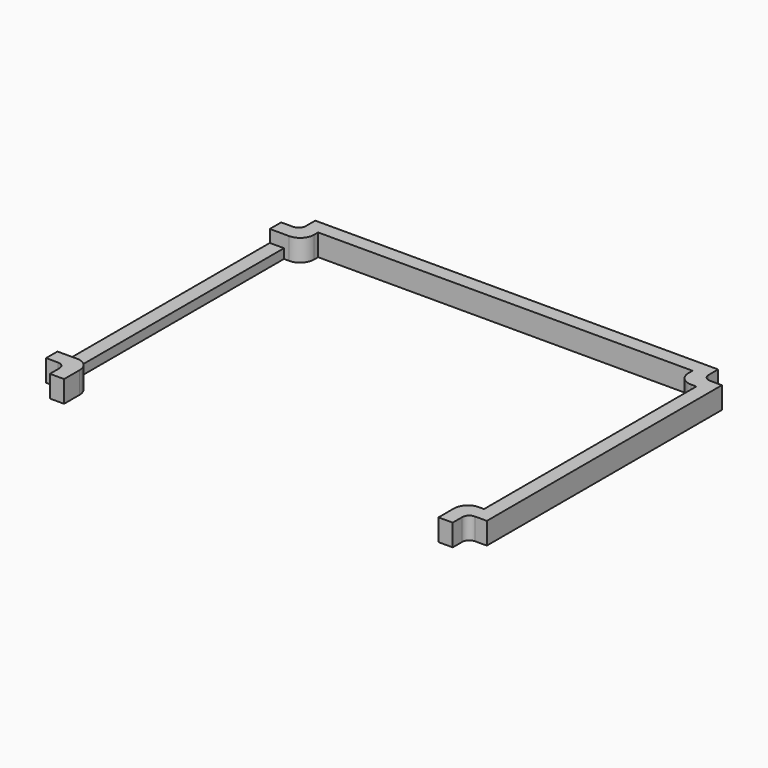
from build123d import *

# Parameters (mm, degrees)
PAD001_DEPTH   = 4.6
SKETCH001003_W = 3
SKETCH001003_H = 56
POCKET_DEPTH   = 2.6
FILLET_R       = 1.5
FILLET001_R    = 2.9


with BuildPart() as part:
    # Sketch001002 → Pad001 (new body)
    with BuildSketch(Plane.XY):
        Polygon((-46.5, 39.5), (-42.5, 39.5), (-42.5, 43.5), (42.5, 43.5), (42.5, 39.5), (46.5, 39.5), (46.5, -22.5), (42.5, -22.5), (42.5, -26.5), (39.5, -26.5), (39.5, -19.5), (43.5, -19.5), (43.5, 36.5), (39.5, 36.5), (39.5, 40.5), (-39.5, 40.5), (-39.5, 36.5), (-43.5, 36.5), (-43.5, -19.5), (-39.5, -19.5), (-39.5, -26.5), (-42.5, -26.5), (-42.5, -22.5), (-46.5, -22.5), align=None)
    extrude(amount=PAD001_DEPTH)

    # Sketch001003 → Pocket (cut)
    with BuildSketch(Plane.XY.offset(4.6)):
        with Locations((-45, 8.5)):
            Rectangle(SKETCH001003_W, SKETCH001003_H)
    extrude(amount=-POCKET_DEPTH, mode=Mode.SUBTRACT)

    # Fillet
    fillet_edges = [part.edges().sort_by_distance(p)[0] for p in [
        (42.5, -22.5, 2.3),
        (42.5, 39.5, 2.3),
        (-42.5, 39.5, 2.3),
        (-42.5, -22.5, 2.3),
    ]]
    fillet(fillet_edges, radius=FILLET_R)

    # Fillet001
    fillet001_edges = [part.edges().sort_by_distance(p)[0] for p in [
        (39.5, 36.5, 2.3),
        (39.5, -19.5, 2.3),
        (-39.5, 36.5, 2.3),
        (-39.5, -19.5, 2.3),
    ]]
    fillet(fillet001_edges, radius=FILLET001_R)


solid = part.part
